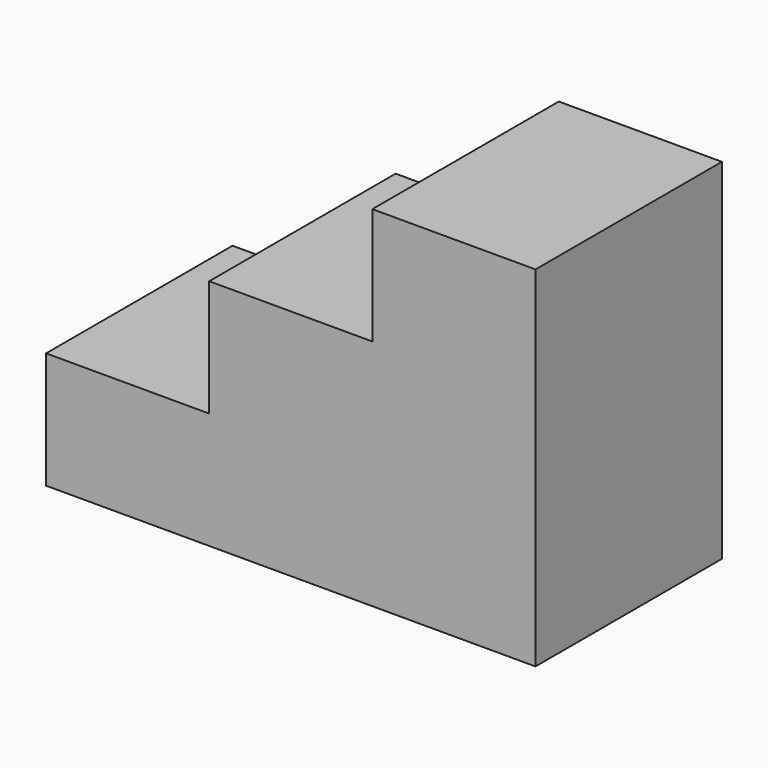
from build123d import *

# Parameters (mm, degrees)
F0_W     = 2667
F0_H     = 1905
F1_DEPTH = 1270
F3_DEPTH = 1270.001


with BuildPart() as f1:
    # F0 (on Front) → F1 (new body)
    with BuildSketch(Plane.XZ):
        with Locations((380.887154, 0.112846)):
            Rectangle(F0_W, F0_H)
    extrude(amount=F1_DEPTH)

    # F2 (on face) → F3 (cut, through all)
    with BuildSketch(Plane.XZ.offset(1270)):
        Polygon((-952.612846, 952.612846), (-952.612846, -317.387154), (-63.612846, -317.387154), (-63.612846, 317.612846), (825.387154, 317.612846), (825.387154, 952.612846), align=None)
    extrude(amount=-F3_DEPTH, mode=Mode.SUBTRACT)


solid = f1.part
